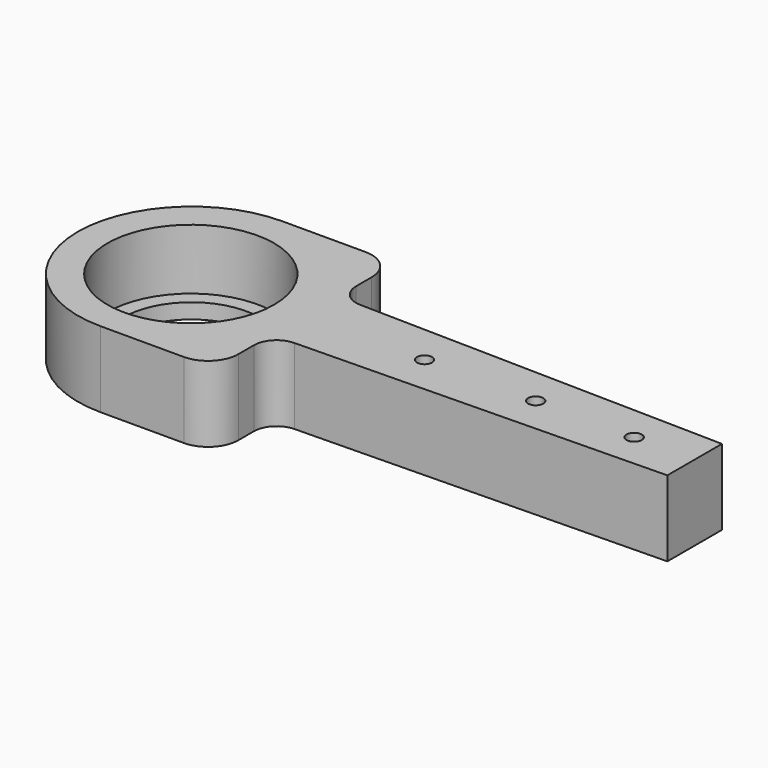
from build123d import *

# Parameters (mm, degrees)
F0_R     = 9
F0_R_2   = 1
F1_DEPTH = 2
F4_DEPTH = 8
F3_R     = 11
F5_DEPTH = 8


with BuildPart() as f1:
    # F0 (on Top) → F1 (new body)
    with BuildSketch(Plane.XY):
        with BuildLine():
            Line((7.3873995355, 21.3588363291), (-3.6126004645, 21.3588363291))
            ThreePointArc((-3.6126004645, 21.3588363291), (-14.2192021823, 16.9654380469), (-18.6126004645, 6.3588363291))
            ThreePointArc((-18.6126004645, 6.3588363291), (-14.2192021823, -4.2477653887), (-3.6126004645, -8.6411636709))
            Line((-3.6126004645, -8.6411636709), (7.3873995355, -8.6411636709))
            ThreePointArc((7.3873995355, -8.6411636709), (10.2158266602, -7.4695907956), (11.3873995355, -4.6411636709))
            Line((11.3873995355, -4.6411636709), (11.3873995355, -2.0833974181))
            ThreePointArc((11.3873995355, -2.0833974181), (12.2455583984, 0.0172016735), (14.3290772311, 0.9160356132))
            Line((14.3290772311, 0.9160356132), (62.8159749994, 1.8588363291))
            Line((62.8159749994, 1.8588363291), (62.8159749994, 10.8588363291))
            Line((62.8159749994, 10.8588363291), (14.3290772311, 11.8016370451))
            ThreePointArc((14.3290772311, 11.8016370451), (12.2455583984, 12.7004709848), (11.3873995355, 14.8010700763))
            Line((11.3873995355, 14.8010700763), (11.3873995355, 17.3588363291))
            ThreePointArc((11.3873995355, 17.3588363291), (10.2158266602, 20.1872634539), (7.3873995355, 21.3588363291))
        make_face()
        with Locations((-3.6126004645, 6.3588363291)):
            Circle(F0_R, mode=Mode.SUBTRACT)
        with Locations((27.1540286045, 6.3588363291)):
            Circle(F0_R_2, mode=Mode.SUBTRACT)
        with Locations((41.830126385, 6.3588363291)):
            Circle(F0_R_2, mode=Mode.SUBTRACT)
        with Locations((54.8330286544, 6.3588363291)):
            Circle(F0_R_2, mode=Mode.SUBTRACT)
    extrude(amount=F1_DEPTH)

    # F4 (add): a face of the model
    f4_faces = [f1.faces().sort_by_distance(p)[0] for p in [
        (16.5282103985, 6.3588363291, 2),
    ]]
    extrude(f4_faces, amount=F4_DEPTH)

    # F3 (on offset) → F5 (cut)
    with BuildSketch(Plane.XY.offset(2)):
        with Locations((-3.6273910664, 6.2710107304)):
            Circle(F3_R)
    extrude(amount=F5_DEPTH, mode=Mode.SUBTRACT)


solid = f1.part
